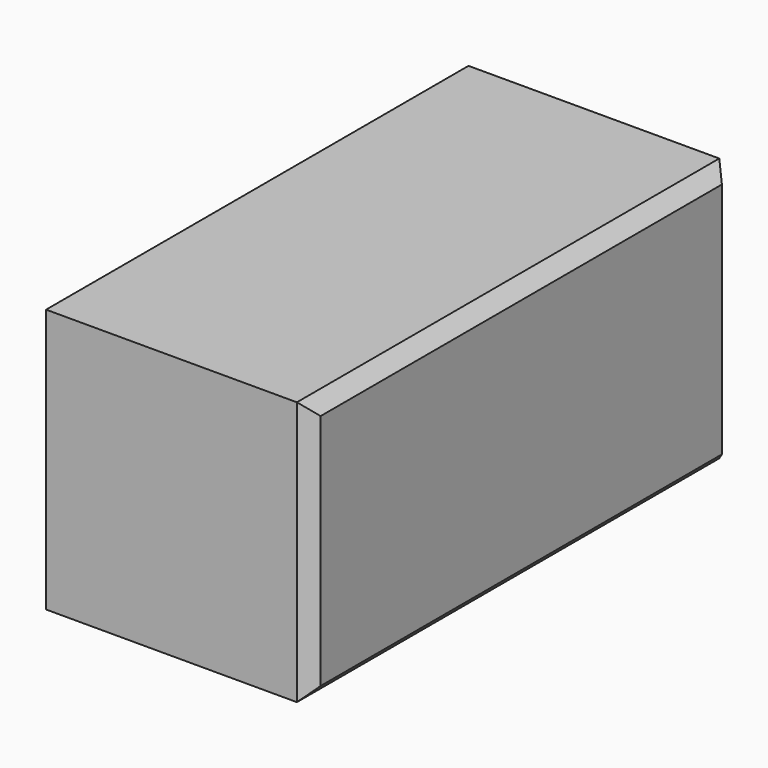
from build123d import *

# Parameters (mm, degrees)
F0_W      = 100
F0_H      = 100
F1_DEPTH  = 100
F1_FACE_W = 100
F1_FACE_H = 100
F2_DEPTH  = 100
F3_SIZE   = 5


with BuildPart() as f1:
    # F0 (on Front) → F1 (new body)
    with BuildSketch(Plane.XZ):
        Rectangle(F0_W, F0_H)
    extrude(amount=F1_DEPTH)

    # F1_face (on face) → F2 (join)
    with BuildSketch(Plane(origin=(0, 0, 0), x_dir=(1, 0, 0), z_dir=(0, 1, 0))):
        Rectangle(F1_FACE_W, F1_FACE_H)
    extrude(amount=F2_DEPTH)

    # F3
    f3_edges = [f1.edges().sort_by_distance(p)[0] for p in [
        (50, 0, 50),
        (50, -100, 0),
        (50, 0, -50),
        (50, 100, 0),
    ]]
    chamfer(f3_edges, length=F3_SIZE)


solid = f1.part
